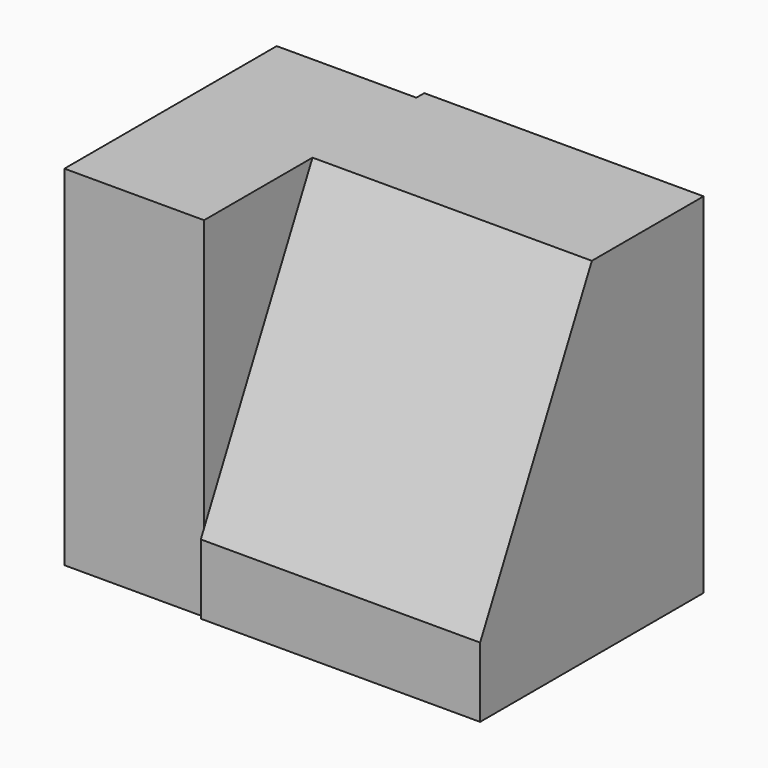
from build123d import *

# Parameters (mm, degrees)
F1_DEPTH = 25.4
F2_W     = 24.130001
F2_H     = 31.75
F3_DEPTH = 12.7


with BuildPart() as f1:
    # F0 (on Right) → F1 (new body)
    with BuildSketch(Plane.YZ):
        Polygon((21.216267, 0), (46.616267, 0), (46.616267, 31.75), (33.916267, 31.75), (21.216267, 6.35), align=None)
    extrude(amount=F1_DEPTH)

    # F2 (on Right) → F3 (join)
    with BuildSketch(Plane.YZ):
        with Locations((33.655001, 15.875)):
            Rectangle(F2_W, F2_H)
    extrude(amount=-F3_DEPTH)


solid = f1.part
